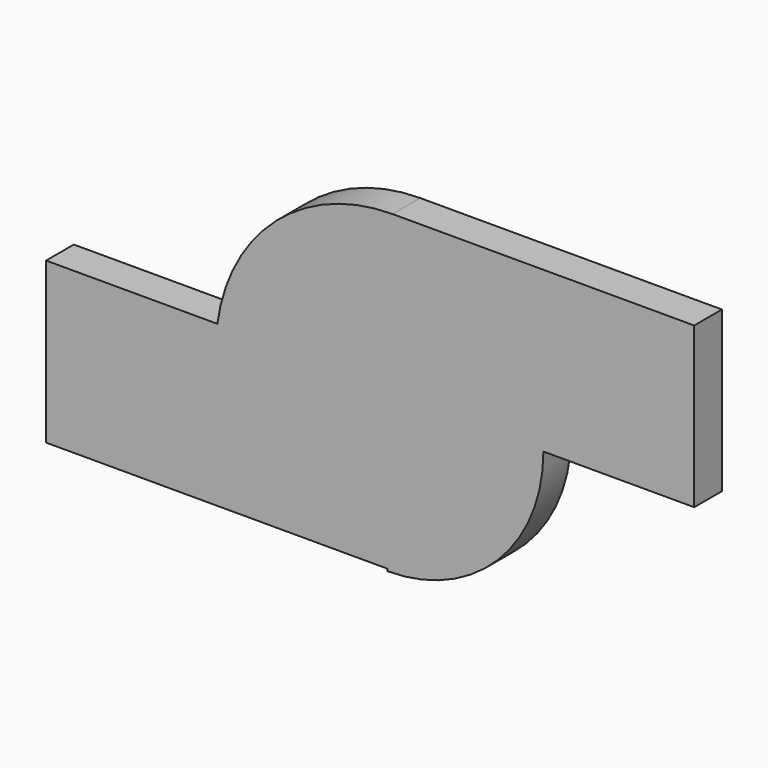
from build123d import *

# Parameters (mm, degrees)
F1_DEPTH = 9.709949


with BuildPart() as f1:
    # F0 (on Front) → F1 (new body)
    with BuildSketch(Plane.XZ):
        with BuildLine():
            Line((-95.615894, 1.793161), (-95.615894, -43.119535))
            Line((-95.615894, -43.119535), (0, -43.119535))
            Line((0, -43.119535), (0, -43.743742))
            ThreePointArc((0, -43.743742), (30.931497, -30.931497), (43.743742, 0))
            Line((43.743742, 0), (85.998386, 0))
            Line((85.998386, 0), (85.998386, 44.837035))
            Line((85.998386, 44.837035), (1.489099, 44.837035))
            ThreePointArc((1.489099, 44.837035), (-31.160509, 32.552727), (-47.614999, 1.793161))
            Line((-47.614999, 1.793161), (-95.615894, 1.793161))
        make_face()
    extrude(amount=F1_DEPTH)


solid = f1.part
